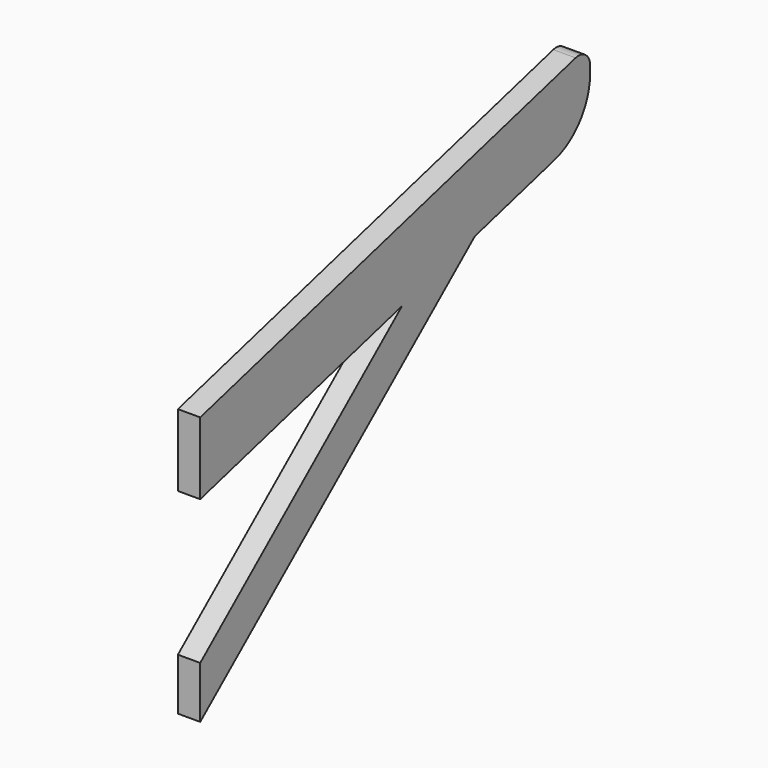
from build123d import *

# Parameters (mm, degrees)
F1_DEPTH = 7.874
F2_R     = 21.289722
F3_R     = 5.08


with BuildPart() as f1:
    # F0 (on Right) → F1 (new body)
    with BuildSketch(Plane.YZ):
        Polygon((0, 25.4), (0, 0), (88.9, 23.820683), (120.941612, 32.406207), (171.741612, 46.018026), (171.741612, 71.418026), align=None)
        Polygon((120.941612, 32.406207), (88.9, 23.820683), (0, -50.775274), (0, -69.075855), align=None)
    extrude(amount=F1_DEPTH)

    # F2
    f2_edges = [f1.edges().sort_by_distance(p)[0] for p in [
        (3.937, 171.741612, 46.018026),
    ]]
    fillet(f2_edges, radius=F2_R)

    # F3
    f3_edges = [f1.edges().sort_by_distance(p)[0] for p in [
        (3.937, 171.741612, 71.418026),
    ]]
    fillet(f3_edges, radius=F3_R)


solid = f1.part
